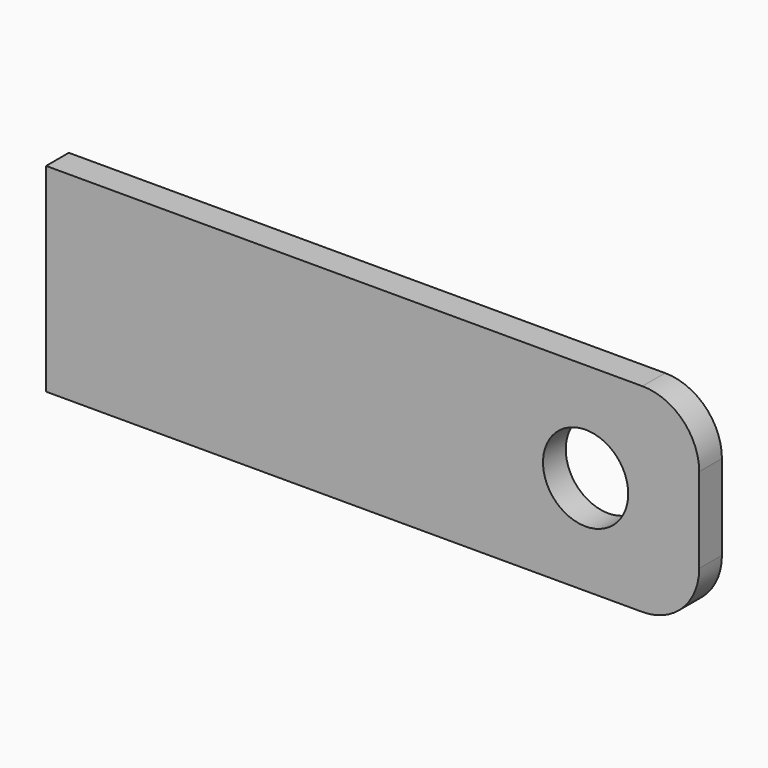
from build123d import *

# Parameters (mm, degrees)
F0_W     = 230
F0_H     = 70
F0_R     = 15
F1_DEPTH = 10
F2_R     = 20


with BuildPart() as f1:
    # F0 (on Front) → F1 (new body)
    with BuildSketch(Plane.XZ):
        Rectangle(F0_W, F0_H)
        with Locations((75, 0)):
            Circle(F0_R, mode=Mode.SUBTRACT)
    extrude(amount=F1_DEPTH)

    # F2
    f2_edges = [f1.edges().sort_by_distance(p)[0] for p in [
        (115, -5, 35),
        (115, -5, -35),
    ]]
    fillet(f2_edges, radius=F2_R)


solid = f1.part
